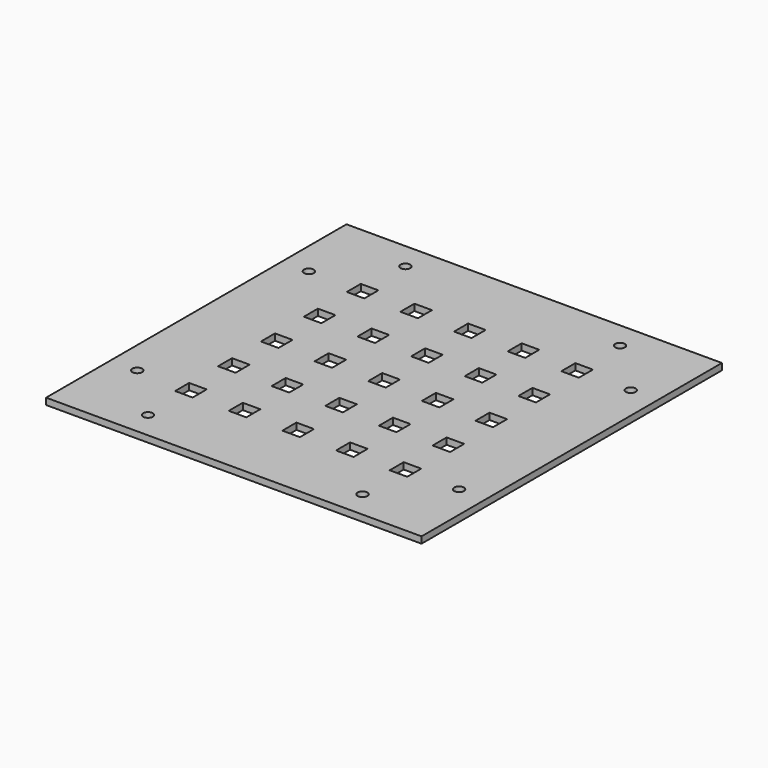
from build123d import *

# Parameters (mm, degrees)
SKETCH_W   = 115.5
SKETCH_H   = 115.5
SKETCH_R   = 1.5
SKETCH_W_2 = 5.4
SKETCH_H_2 = 5.4
PAD_DEPTH  = 2


with BuildPart() as part:
    # Sketch → Pad (new body)
    with BuildSketch(Plane.XY):
        Rectangle(SKETCH_W, SKETCH_H)
        with Locations((-49.5, 33)):
            Circle(SKETCH_R, mode=Mode.SUBTRACT)
        with Locations((-33, 49.5)):
            Circle(SKETCH_R, mode=Mode.SUBTRACT)
        with Locations((33, 49.5)):
            Circle(SKETCH_R, mode=Mode.SUBTRACT)
        with Locations((49.5, 33)):
            Circle(SKETCH_R, mode=Mode.SUBTRACT)
        with Locations((49.5, -33)):
            Circle(SKETCH_R, mode=Mode.SUBTRACT)
        with Locations((33, -49.5)):
            Circle(SKETCH_R, mode=Mode.SUBTRACT)
        with Locations((-33, -49.5)):
            Circle(SKETCH_R, mode=Mode.SUBTRACT)
        with Locations((-49.5, -33)):
            Circle(SKETCH_R, mode=Mode.SUBTRACT)
        Rectangle(SKETCH_W_2, SKETCH_H_2, mode=Mode.SUBTRACT)
        with Locations((-16.5, 0)):
            Rectangle(SKETCH_W_2, SKETCH_H_2, mode=Mode.SUBTRACT)
        with Locations((-33, 0)):
            Rectangle(SKETCH_W_2, SKETCH_H_2, mode=Mode.SUBTRACT)
        with Locations((16.5, 0)):
            Rectangle(SKETCH_W_2, SKETCH_H_2, mode=Mode.SUBTRACT)
        with Locations((33, 0)):
            Rectangle(SKETCH_W_2, SKETCH_H_2, mode=Mode.SUBTRACT)
        with Locations((0, -16.5)):
            Rectangle(SKETCH_W_2, SKETCH_H_2, mode=Mode.SUBTRACT)
        with Locations((-16.5, -16.5)):
            Rectangle(SKETCH_W_2, SKETCH_H_2, mode=Mode.SUBTRACT)
        with Locations((-33, -16.5)):
            Rectangle(SKETCH_W_2, SKETCH_H_2, mode=Mode.SUBTRACT)
        with Locations((16.5, -16.5)):
            Rectangle(SKETCH_W_2, SKETCH_H_2, mode=Mode.SUBTRACT)
        with Locations((33, -16.5)):
            Rectangle(SKETCH_W_2, SKETCH_H_2, mode=Mode.SUBTRACT)
        with Locations((0, 16.5)):
            Rectangle(SKETCH_W_2, SKETCH_H_2, mode=Mode.SUBTRACT)
        with Locations((-16.5, 16.5)):
            Rectangle(SKETCH_W_2, SKETCH_H_2, mode=Mode.SUBTRACT)
        with Locations((-33, 16.5)):
            Rectangle(SKETCH_W_2, SKETCH_H_2, mode=Mode.SUBTRACT)
        with Locations((16.5, 16.5)):
            Rectangle(SKETCH_W_2, SKETCH_H_2, mode=Mode.SUBTRACT)
        with Locations((33, 16.5)):
            Rectangle(SKETCH_W_2, SKETCH_H_2, mode=Mode.SUBTRACT)
        with Locations((0, 33)):
            Rectangle(SKETCH_W_2, SKETCH_H_2, mode=Mode.SUBTRACT)
        with Locations((-16.5, 33)):
            Rectangle(SKETCH_W_2, SKETCH_H_2, mode=Mode.SUBTRACT)
        with Locations((-33, 33)):
            Rectangle(SKETCH_W_2, SKETCH_H_2, mode=Mode.SUBTRACT)
        with Locations((16.5, 33)):
            Rectangle(SKETCH_W_2, SKETCH_H_2, mode=Mode.SUBTRACT)
        with Locations((33, 33)):
            Rectangle(SKETCH_W_2, SKETCH_H_2, mode=Mode.SUBTRACT)
        with Locations((0, -33)):
            Rectangle(SKETCH_W_2, SKETCH_H_2, mode=Mode.SUBTRACT)
        with Locations((-16.5, -33)):
            Rectangle(SKETCH_W_2, SKETCH_H_2, mode=Mode.SUBTRACT)
        with Locations((-33, -33)):
            Rectangle(SKETCH_W_2, SKETCH_H_2, mode=Mode.SUBTRACT)
        with Locations((16.5, -33)):
            Rectangle(SKETCH_W_2, SKETCH_H_2, mode=Mode.SUBTRACT)
        with Locations((33, -33)):
            Rectangle(SKETCH_W_2, SKETCH_H_2, mode=Mode.SUBTRACT)
    extrude(amount=PAD_DEPTH)


solid = part.part
